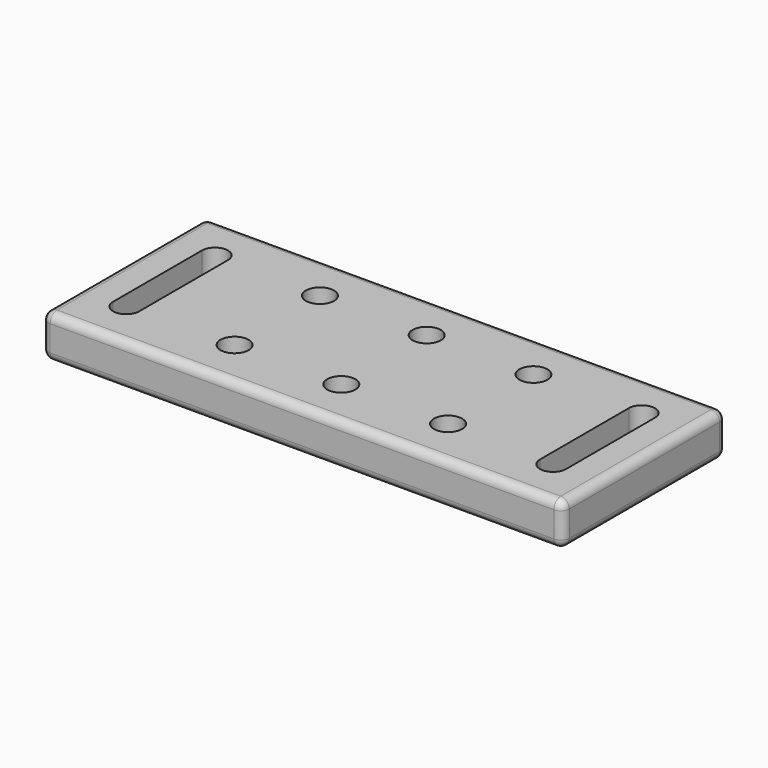
from build123d import *

# Parameters (mm, degrees)
SKETCH_W    = 122
SKETCH_H    = 48
PAD_DEPTH   = 10
SKETCH001_R = 3.3
HOLE_DEPTH  = 10.001
FILLET_R    = 2
FILLET001_R = 2
FILLET002_R = 2
FILLET003_R = 2
FILLET004_R = 2


with BuildPart() as part:
    # Sketch → Pad (new body)
    with BuildSketch(Plane.XY):
        Rectangle(SKETCH_W, SKETCH_H)
        with BuildLine():
            ThreePointArc((53.05, 13), (50, 16.05), (46.95, 13))
            Line((46.95, 13), (46.95, -13))
            ThreePointArc((46.95, -13), (50, -16.05), (53.05, -13))
            Line((53.05, -13), (53.05, 13))
        make_face(mode=Mode.SUBTRACT)
        with BuildLine():
            ThreePointArc((-46.95, 13), (-50, 16.05), (-53.05, 13))
            Line((-53.05, 13), (-53.05, -13))
            ThreePointArc((-53.05, -13), (-50, -16.05), (-46.95, -13))
            Line((-46.95, -13), (-46.95, 13))
        make_face(mode=Mode.SUBTRACT)
    extrude(amount=PAD_DEPTH)

    # Sketch001 (on Face14 of Pad) → Hole (cut, through all)
    with BuildSketch(Plane.XY.offset(10)):
        with Locations((0, 12.5)):
            Circle(SKETCH001_R)
        with Locations((25, 12.5)):
            Circle(SKETCH001_R)
        with Locations((0, -12.5)):
            Circle(SKETCH001_R)
        with Locations((25, -12.5)):
            Circle(SKETCH001_R)
        with Locations((-25, 12.5)):
            Circle(SKETCH001_R)
        with Locations((-25, -12.5)):
            Circle(SKETCH001_R)
    extrude(amount=-HOLE_DEPTH, mode=Mode.SUBTRACT)

    # Fillet
    fillet_edges = [part.edges().sort_by_distance(p)[0] for p in [
        (0, 24, 10),
    ]]
    fillet(fillet_edges, radius=FILLET_R)

    # Fillet001
    fillet001_edges = [part.edges().sort_by_distance(p)[0] for p in [
        (0, -24, 10),
    ]]
    fillet(fillet001_edges, radius=FILLET001_R)

    # Fillet002
    fillet002_edges = [part.edges().sort_by_distance(p)[0] for p in [
        (-61, 0, 10),
    ]]
    fillet(fillet002_edges, radius=FILLET002_R)

    # Fillet003
    fillet003_edges = [part.edges().sort_by_distance(p)[0] for p in [
        (61, 0, 10),
    ]]
    fillet(fillet003_edges, radius=FILLET003_R)

    # Fillet004
    fillet004_edges = [part.edges().sort_by_distance(p)[0] for p in [
        (0, -24, 0),
    ]]
    fillet(fillet004_edges, radius=FILLET004_R)


solid = part.part
